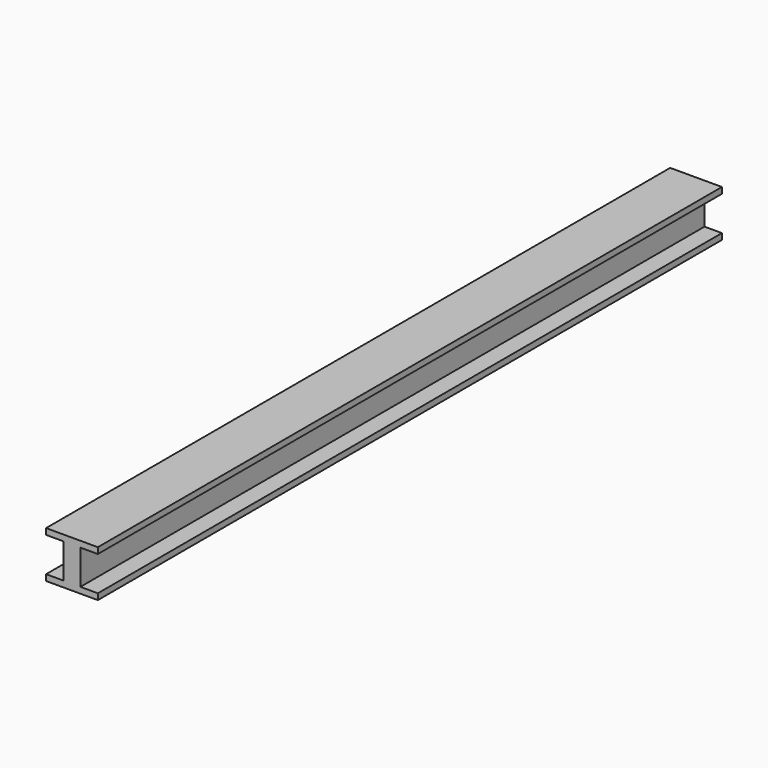
from build123d import *

# Parameters (mm, degrees)
F1_DEPTH = 1000


with BuildPart() as f1:
    # F0 (on Front) → F1 (new body)
    with BuildSketch(Plane.XZ):
        Polygon((0, 29.880688), (0, 0), (10.851949, 0), (10.851949, 22.142284), (33.172444, 22.142284), (33.172444, 29.880688), align=None)
        Polygon((0, 0), (-10.851949, 0), (-10.851949, -22.142284), (-33.172444, -22.142284), (-33.172444, -29.880688), (0, -29.880688), (33.172444, -29.880688), (33.172444, -22.142284), (10.851949, -22.142284), (10.851949, 0), align=None)
        Polygon((-10.851949, 22.142284), (-10.851949, 0), (0, 0), (0, 29.880688), (-33.172444, 29.880688), (-33.172444, 22.142284), align=None)
    extrude(amount=-F1_DEPTH)


solid = f1.part
